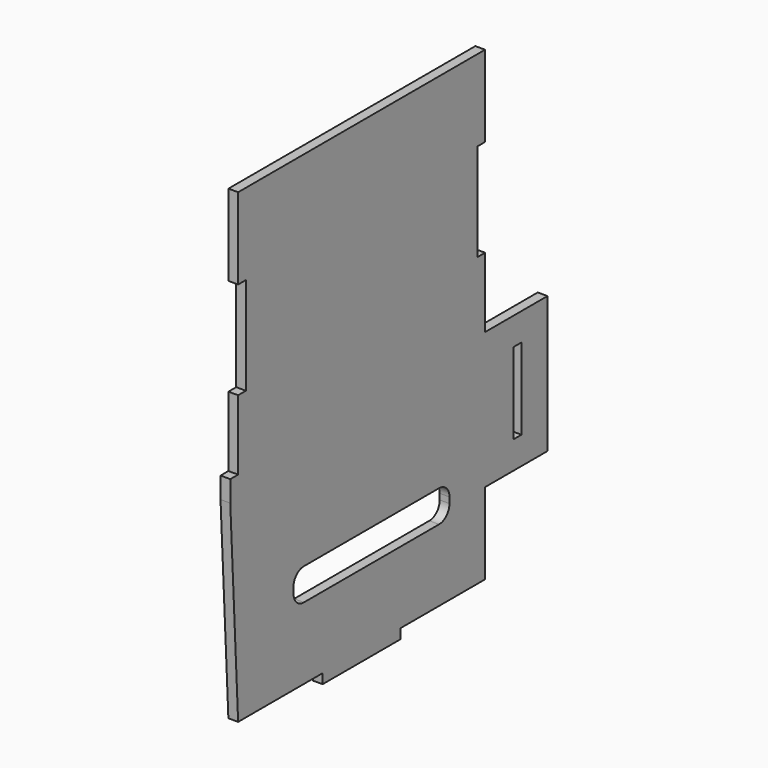
from build123d import *

# Parameters (mm, degrees)
F0_W     = 30
F0_H     = 3
F1_DEPTH = 3
F2_W     = 3.1
F2_H     = 25
F3_DEPTH = 25
F5_DEPTH = 25
F6_W     = 3
F6_H     = 30
F7_DEPTH = 25


with BuildPart() as f1:
    # F0 (on Right) → F1 (new body)
    with BuildSketch(Plane.YZ):
        Polygon((-45.8, 83), (-45.8, 6.5), (-48.823975, 6.5), (-48.823975, 0), (-45.8, -60.5), (-13.3, -60.5), (16.7, -60.5), (49.2, -60.5), (49.2, -35.5), (73.2, -35.5), (73.2, 6.5), (49.2, 6.5), (49.2, 83), align=None)
        with Locations((1.7, -62)):
            Rectangle(F0_W, F0_H)
    extrude(amount=F1_DEPTH)

    # F2 (on face) → F3 (cut)
    with BuildSketch(Plane.YZ.offset(3)):
        with Locations((61.65, -14.5)):
            Rectangle(F2_W, F2_H)
    extrude(amount=-F3_DEPTH, mode=Mode.SUBTRACT)

    # F4 (on face) → F5 (cut)
    with BuildSketch(Plane.YZ.offset(3)):
        with BuildLine():
            Line((31.499346, -28.6), (-20.500654, -28.6))
            ThreePointArc((-20.500654, -28.6), (-23.329081, -29.771573), (-24.500654, -32.6))
            Line((-24.500654, -32.6), (-24.500654, -34.4))
            ThreePointArc((-24.500654, -34.4), (-23.329081, -37.228427), (-20.500654, -38.4))
            Line((-20.500654, -38.4), (31.499346, -38.4))
            ThreePointArc((31.499346, -38.4), (34.327773, -37.228427), (35.499346, -34.4))
            Line((35.499346, -34.4), (35.499346, -32.6))
            ThreePointArc((35.499346, -32.6), (34.327773, -29.771573), (31.499346, -28.6))
        make_face()
    extrude(amount=-F5_DEPTH, mode=Mode.SUBTRACT)

    # F6 (on face) → F7 (cut)
    with BuildSketch(Plane.YZ.offset(3)):
        with Locations((-44.3, 43)):
            Rectangle(F6_W, F6_H)
        with Locations((47.7, 43)):
            Rectangle(F6_W, F6_H)
    extrude(amount=-F7_DEPTH, mode=Mode.SUBTRACT)


solid = f1.part
